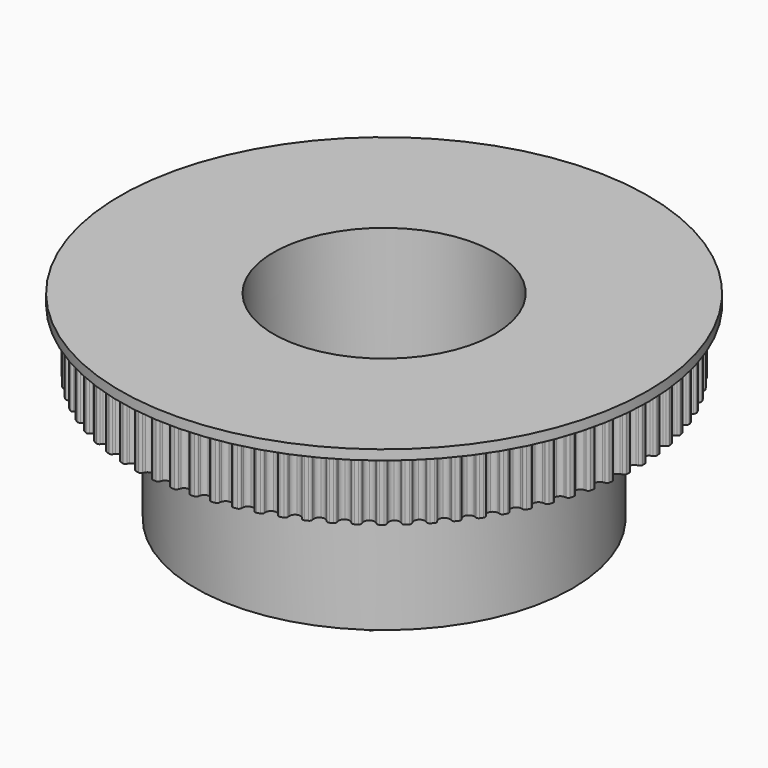
from build123d import *

# Parameters (mm, degrees)
F1_DEPTH  = 6.35
F2_R      = 26.67
F3_DEPTH  = 1
F4_R      = 19.05
F5_DEPTH  = 12.7
F7_DEPTH  = 6.35
F8_R      = 4.8895
F9_DEPTH  = 41.656
F10_R     = 11.176
F11_DEPTH = 16.51


with BuildPart() as f1:
    # F0 (on Top) → F1 (new body)
    with BuildSketch(Plane.XY):
        with BuildLine():
            ThreePointArc((0.501201, 25.030826), (0.296418, 24.799987), (0, 24.7142))
            ThreePointArc((0, 24.7142), (-0.296418, 24.799987), (-0.501201, 25.030826))
            ThreePointArc((-0.501201, 25.030826), (-0.544776, 25.138037), (-0.575673, 25.249565))
            ThreePointArc((-0.575673, 25.249565), (-0.667659, 25.39624), (-0.832269, 25.449895))
            ThreePointArc((-0.832269, 25.449895), (-0.999692, 25.443869), (-1.167072, 25.436741))
            ThreePointArc((-1.167072, 25.436741), (-1.326965, 25.370336), (-1.40716, 25.216896))
            ThreePointArc((-1.40716, 25.216896), (-1.429211, 25.103288), (-1.46424, 24.992988))
            ThreePointArc((-1.46424, 24.992988), (-1.65028, 24.746793), (-1.939054, 24.638014))
            ThreePointArc((-1.939054, 24.638014), (-2.241289, 24.70028), (-2.463552, 24.914341))
            ThreePointArc((-2.463552, 24.914341), (-2.515405, 25.017802), (-2.554956, 25.126562))
            ThreePointArc((-2.554956, 25.126562), (-2.658167, 25.265568), (-2.826479, 25.306142))
            ThreePointArc((-2.826479, 25.306142), (-2.992914, 25.286999), (-3.159218, 25.26676))
            ThreePointArc((-3.159218, 25.26676), (-3.313408, 25.188015), (-3.381317, 25.028756))
            ThreePointArc((-3.381317, 25.028756), (-3.394386, 24.913768), (-3.420653, 24.80106))
            ThreePointArc((-3.420653, 24.80106), (-3.586804, 24.541028), (-3.866153, 24.409927))
            ThreePointArc((-3.866153, 24.409927), (-4.172341, 24.448288), (-4.410715, 24.64425))
            ThreePointArc((-4.410715, 24.64425), (-4.470525, 24.743324), (-4.518487, 24.848646))
            ThreePointArc((-4.518487, 24.848646), (-4.632287, 24.979126), (-4.803263, 25.006369))
            ThreePointArc((-4.803263, 25.006369), (-4.967682, 24.974226), (-5.131887, 24.941002))
            ThreePointArc((-5.131887, 24.941002), (-5.279423, 24.850402), (-5.334627, 24.686305))
            ThreePointArc((-5.334627, 24.686305), (-5.338634, 24.570647), (-5.355977, 24.456225))
            ThreePointArc((-5.355977, 24.456225), (-5.501214, 24.183958), (-5.769415, 24.031345))
            ThreePointArc((-5.769415, 24.031345), (-6.07767, 24.045563), (-6.330683, 24.222219))
            ThreePointArc((-6.330683, 24.222219), (-6.398082, 24.316296), (-6.454161, 24.417529))
            ThreePointArc((-6.454161, 24.417529), (-6.577846, 24.538678), (-6.750434, 24.552423))
            ThreePointArc((-6.750434, 24.552423), (-6.911824, 24.507479), (-7.072915, 24.461474))
            ThreePointArc((-7.072915, 24.461474), (-7.212888, 24.359578), (-7.255047, 24.191656))
            ThreePointArc((-7.255047, 24.191656), (-7.249968, 24.076039), (-7.25828, 23.96061))
            ThreePointArc((-7.25828, 23.96061), (-7.381707, 23.677787), (-7.637108, 23.504601))
            ThreePointArc((-7.637108, 23.504601), (-7.945528, 23.494591), (-8.211621, 23.65085))
            ThreePointArc((-8.211621, 23.65085), (-8.286194, 23.739349), (-8.350042, 23.83587))
            ThreePointArc((-8.350042, 23.83587), (-8.482852, 23.946942), (-8.655985, 23.947103))
            ThreePointArc((-8.655985, 23.947103), (-8.813352, 23.889635), (-8.970337, 23.831133))
            ThreePointArc((-8.970337, 23.831133), (-9.101884, 23.718569), (-9.130738, 23.547857))
            ThreePointArc((-9.130738, 23.547857), (-9.116603, 23.432995), (-9.115833, 23.317269))
            ThreePointArc((-9.115833, 23.317269), (-9.216689, 23.025634), (-9.457715, 22.832944))
            ThreePointArc((-9.457715, 22.832944), (-9.764399, 22.798766), (-10.041932, 22.933666))
            ThreePointArc((-10.041932, 22.933666), (-10.123218, 23.016041), (-10.194442, 23.107256))
            ThreePointArc((-10.194442, 23.107256), (-10.335557, 23.207564), (-10.50817, 23.194142))
            ThreePointArc((-10.50817, 23.194142), (-10.660542, 23.124504), (-10.812453, 23.053865))
            ThreePointArc((-10.812453, 23.053865), (-10.934763, 22.931327), (-10.950134, 22.758877))
            ThreePointArc((-10.950134, 22.758877), (-10.927031, 22.645478), (-10.917183, 22.53017))
            ThreePointArc((-10.917183, 22.53017), (-10.994848, 22.231521), (-11.220012, 22.020513))
            ThreePointArc((-11.220012, 22.020513), (-11.523069, 21.962379), (-11.810331, 22.075089))
            ThreePointArc((-11.810331, 22.075089), (-11.897829, 22.150832), (-11.975991, 22.236177))
            ThreePointArc((-11.975991, 22.236177), (-12.124541, 22.325105), (-12.295568, 22.29818))
            ThreePointArc((-12.295568, 22.29818), (-12.442007, 22.216802), (-12.587908, 22.134462))
            ThreePointArc((-12.587908, 22.134462), (-12.700226, 22.002706), (-12.70202, 21.829581))
            ThreePointArc((-12.70202, 21.829581), (-12.67009, 21.718345), (-12.651226, 21.604165))
            ThreePointArc((-12.651226, 21.604165), (-12.705219, 21.300343), (-12.913134, 21.07232))
            ThreePointArc((-12.913134, 21.07232), (-13.210695, 20.990587), (-13.505915, 21.080411))
            ThreePointArc((-13.505915, 21.080411), (-13.599086, 21.149055), (-13.683703, 21.228005))
            ThreePointArc((-13.683703, 21.228005), (-13.838772, 21.305003), (-14.00716, 21.264743))
            ThreePointArc((-14.00716, 21.264743), (-14.146763, 21.172126), (-14.285753, 21.078593))
            ThreePointArc((-14.285753, 21.078593), (-14.387388, 20.93843), (-14.375593, 20.765699))
            ThreePointArc((-14.375593, 20.765699), (-14.335034, 20.657311), (-14.30727, 20.544962))
            ThreePointArc((-14.30727, 20.544962), (-14.337259, 20.237841), (-14.526642, 19.994208))
            ThreePointArc((-14.526642, 19.994208), (-14.816874, 19.88938), (-15.118231, 19.955765))
            ThreePointArc((-15.118231, 19.955765), (-15.216501, 20.016888), (-15.307051, 20.088955))
            ThreePointArc((-15.307051, 20.088955), (-15.467683, 20.15355), (-15.632393, 20.100202))
            ThreePointArc((-15.632393, 20.100202), (-15.764299, 19.996918), (-15.895522, 19.892768))
            ThreePointArc((-15.895522, 19.892768), (-15.985847, 19.745063), (-15.960536, 19.573789))
            ThreePointArc((-15.960536, 19.573789), (-15.911598, 19.468917), (-15.875105, 19.359094))
            ThreePointArc((-15.875105, 19.359094), (-15.880905, 19.050566), (-16.050589, 18.792825))
            ThreePointArc((-16.050589, 18.792825), (-16.331701, 18.66555), (-16.637338, 18.708085))
            ThreePointArc((-16.637338, 18.708085), (-16.7401, 18.76131), (-16.836026, 18.82605))
            ThreePointArc((-16.836026, 18.82605), (-17.001231, 18.877843), (-17.161247, 18.811736))
            ThreePointArc((-17.161247, 18.811736), (-17.284643, 18.698421), (-17.40729, 18.584297))
            ThreePointArc((-17.40729, 18.584297), (-17.485747, 18.42996), (-17.447076, 18.261201))
            ThreePointArc((-17.447076, 18.261201), (-17.390062, 18.160492), (-17.345064, 18.05387))
            ThreePointArc((-17.345064, 18.05387), (-17.326639, 17.745838), (-17.475578, 17.475578))
            ThreePointArc((-17.475578, 17.475578), (-17.745838, 17.326639), (-18.05387, 17.345064))
            ThreePointArc((-18.05387, 17.345064), (-18.160492, 17.390062), (-18.261201, 17.447076))
            ThreePointArc((-18.261201, 17.447076), (-18.42996, 17.485747), (-18.584297, 17.40729))
            ThreePointArc((-18.584297, 17.40729), (-18.698421, 17.284643), (-18.811736, 17.161247))
            ThreePointArc((-18.811736, 17.161247), (-18.877843, 17.001231), (-18.82605, 16.836026))
            ThreePointArc((-18.82605, 16.836026), (-18.76131, 16.7401), (-18.708085, 16.637338))
            ThreePointArc((-18.708085, 16.637338), (-18.66555, 16.331701), (-18.792825, 16.050589))
            ThreePointArc((-18.792825, 16.050589), (-19.050566, 15.880905), (-19.359094, 15.875105))
            ThreePointArc((-19.359094, 15.875105), (-19.468917, 15.911598), (-19.573789, 15.960536))
            ThreePointArc((-19.573789, 15.960536), (-19.745063, 15.985847), (-19.892768, 15.895522))
            ThreePointArc((-19.892768, 15.895522), (-19.996918, 15.764299), (-20.100202, 15.632393))
            ThreePointArc((-20.100202, 15.632393), (-20.15355, 15.467683), (-20.088955, 15.307051))
            ThreePointArc((-20.088955, 15.307051), (-20.016888, 15.216501), (-19.955765, 15.118231))
            ThreePointArc((-19.955765, 15.118231), (-19.88938, 14.816874), (-19.994208, 14.526642))
            ThreePointArc((-19.994208, 14.526642), (-20.237841, 14.337259), (-20.544962, 14.30727))
            ThreePointArc((-20.544962, 14.30727), (-20.657311, 14.335034), (-20.765699, 14.375593))
            ThreePointArc((-20.765699, 14.375593), (-20.93843, 14.387388), (-21.078593, 14.285753))
            ThreePointArc((-21.078593, 14.285753), (-21.172126, 14.146763), (-21.264743, 14.00716))
            ThreePointArc((-21.264743, 14.00716), (-21.305003, 13.838772), (-21.228005, 13.683703))
            ThreePointArc((-21.228005, 13.683703), (-21.149055, 13.599086), (-21.080411, 13.505915))
            ThreePointArc((-21.080411, 13.505915), (-20.990587, 13.210695), (-21.07232, 12.913134))
            ThreePointArc((-21.07232, 12.913134), (-21.300343, 12.705219), (-21.604165, 12.651226))
            ThreePointArc((-21.604165, 12.651226), (-21.718345, 12.67009), (-21.829581, 12.70202))
            ThreePointArc((-21.829581, 12.70202), (-22.002706, 12.700226), (-22.134462, 12.587908))
            ThreePointArc((-22.134462, 12.587908), (-22.216802, 12.442007), (-22.29818, 12.295568))
            ThreePointArc((-22.29818, 12.295568), (-22.325105, 12.124541), (-22.236177, 11.975991))
            ThreePointArc((-22.236177, 11.975991), (-22.150832, 11.897829), (-22.075089, 11.810331))
            ThreePointArc((-22.075089, 11.810331), (-21.962379, 11.523069), (-22.020513, 11.220012))
            ThreePointArc((-22.020513, 11.220012), (-22.231521, 10.994848), (-22.53017, 10.917183))
            ThreePointArc((-22.53017, 10.917183), (-22.645478, 10.927031), (-22.758877, 10.950134))
            ThreePointArc((-22.758877, 10.950134), (-22.931327, 10.934763), (-23.053865, 10.812453))
            ThreePointArc((-23.053865, 10.812453), (-23.124504, 10.660542), (-23.194142, 10.50817))
            ThreePointArc((-23.194142, 10.50817), (-23.207564, 10.335557), (-23.107256, 10.194442))
            ThreePointArc((-23.107256, 10.194442), (-23.016041, 10.123218), (-22.933666, 10.041932))
            ThreePointArc((-22.933666, 10.041932), (-22.798766, 9.764399), (-22.832944, 9.457715))
            ThreePointArc((-22.832944, 9.457715), (-23.025634, 9.216689), (-23.317269, 9.115833))
            ThreePointArc((-23.317269, 9.115833), (-23.432995, 9.116603), (-23.547857, 9.130738))
            ThreePointArc((-23.547857, 9.130738), (-23.718569, 9.101884), (-23.831133, 8.970337))
            ThreePointArc((-23.831133, 8.970337), (-23.889635, 8.813352), (-23.947103, 8.655985))
            ThreePointArc((-23.947103, 8.655985), (-23.946942, 8.482852), (-23.83587, 8.350042))
            ThreePointArc((-23.83587, 8.350042), (-23.739349, 8.286194), (-23.65085, 8.211621))
            ThreePointArc((-23.65085, 8.211621), (-23.494591, 7.945528), (-23.504601, 7.637108))
            ThreePointArc((-23.504601, 7.637108), (-23.677787, 7.381707), (-23.96061, 7.25828))
            ThreePointArc((-23.96061, 7.25828), (-24.076039, 7.249968), (-24.191656, 7.255047))
            ThreePointArc((-24.191656, 7.255047), (-24.359578, 7.212888), (-24.461474, 7.072915))
            ThreePointArc((-24.461474, 7.072915), (-24.507479, 6.911824), (-24.552423, 6.750434))
            ThreePointArc((-24.552423, 6.750434), (-24.538678, 6.577846), (-24.417529, 6.454161))
            ThreePointArc((-24.417529, 6.454161), (-24.316296, 6.398082), (-24.222219, 6.330683))
            ThreePointArc((-24.222219, 6.330683), (-24.045563, 6.07767), (-24.031345, 5.769415))
            ThreePointArc((-24.031345, 5.769415), (-24.183958, 5.501214), (-24.456225, 5.355977))
            ThreePointArc((-24.456225, 5.355977), (-24.570647, 5.338634), (-24.686305, 5.334627))
            ThreePointArc((-24.686305, 5.334627), (-24.850402, 5.279423), (-24.941002, 5.131887))
            ThreePointArc((-24.941002, 5.131887), (-24.974226, 4.967682), (-25.006369, 4.803263))
            ThreePointArc((-25.006369, 4.803263), (-24.979126, 4.632287), (-24.848646, 4.518487))
            ThreePointArc((-24.848646, 4.518487), (-24.743324, 4.470525), (-24.64425, 4.410715))
            ThreePointArc((-24.64425, 4.410715), (-24.448288, 4.172341), (-24.409927, 3.866153))
            ThreePointArc((-24.409927, 3.866153), (-24.541028, 3.586804), (-24.80106, 3.420653))
            ThreePointArc((-24.80106, 3.420653), (-24.913768, 3.394386), (-25.028756, 3.381317))
            ThreePointArc((-25.028756, 3.381317), (-25.188015, 3.313408), (-25.26676, 3.159218))
            ThreePointArc((-25.26676, 3.159218), (-25.286999, 2.992914), (-25.306142, 2.826479))
            ThreePointArc((-25.306142, 2.826479), (-25.265568, 2.658167), (-25.126562, 2.554956))
            ThreePointArc((-25.126562, 2.554956), (-25.017802, 2.515405), (-24.914341, 2.463552))
            ThreePointArc((-24.914341, 2.463552), (-24.70028, 2.241289), (-24.638014, 1.939054))
            ThreePointArc((-24.638014, 1.939054), (-24.746793, 1.65028), (-24.992988, 1.46424))
            ThreePointArc((-24.992988, 1.46424), (-25.103288, 1.429211), (-25.216896, 1.40716))
            ThreePointArc((-25.216896, 1.40716), (-25.370336, 1.326965), (-25.436741, 1.167072))
            ThreePointArc((-25.436741, 1.167072), (-25.443869, 0.999692), (-25.449895, 0.832269))
            ThreePointArc((-25.449895, 0.832269), (-25.39624, 0.667659), (-25.249565, 0.575673))
            ThreePointArc((-25.249565, 0.575673), (-25.138037, 0.544776), (-25.030826, 0.501201))
            ThreePointArc((-25.030826, 0.501201), (-24.799987, 0.296418), (-24.7142, 0))
            ThreePointArc((-24.7142, 0), (-24.799987, -0.296418), (-25.030826, -0.501201))
            ThreePointArc((-25.030826, -0.501201), (-25.138037, -0.544776), (-25.249565, -0.575673))
            ThreePointArc((-25.249565, -0.575673), (-25.39624, -0.667659), (-25.449895, -0.832269))
            ThreePointArc((-25.449895, -0.832269), (-25.443869, -0.999692), (-25.436741, -1.167072))
            ThreePointArc((-25.436741, -1.167072), (-25.370336, -1.326965), (-25.216896, -1.40716))
            ThreePointArc((-25.216896, -1.40716), (-25.103288, -1.429211), (-24.992988, -1.46424))
            ThreePointArc((-24.992988, -1.46424), (-24.746793, -1.65028), (-24.638014, -1.939054))
            ThreePointArc((-24.638014, -1.939054), (-24.70028, -2.241289), (-24.914341, -2.463552))
            ThreePointArc((-24.914341, -2.463552), (-25.017802, -2.515405), (-25.126562, -2.554956))
            ThreePointArc((-25.126562, -2.554956), (-25.265568, -2.658167), (-25.306142, -2.826479))
            ThreePointArc((-25.306142, -2.826479), (-25.286999, -2.992914), (-25.26676, -3.159218))
            ThreePointArc((-25.26676, -3.159218), (-25.188015, -3.313408), (-25.028756, -3.381317))
            ThreePointArc((-25.028756, -3.381317), (-24.913768, -3.394386), (-24.80106, -3.420653))
            ThreePointArc((-24.80106, -3.420653), (-24.541028, -3.586804), (-24.409927, -3.866153))
            ThreePointArc((-24.409927, -3.866153), (-24.448288, -4.172341), (-24.64425, -4.410715))
            ThreePointArc((-24.64425, -4.410715), (-24.743324, -4.470525), (-24.848646, -4.518487))
            ThreePointArc((-24.848646, -4.518487), (-24.979126, -4.632287), (-25.006369, -4.803263))
            ThreePointArc((-25.006369, -4.803263), (-24.974226, -4.967682), (-24.941002, -5.131887))
            ThreePointArc((-24.941002, -5.131887), (-24.850402, -5.279423), (-24.686305, -5.334627))
            ThreePointArc((-24.686305, -5.334627), (-24.570647, -5.338634), (-24.456225, -5.355977))
            ThreePointArc((-24.456225, -5.355977), (-24.183958, -5.501214), (-24.031345, -5.769415))
            ThreePointArc((-24.031345, -5.769415), (-24.045563, -6.07767), (-24.222219, -6.330683))
            ThreePointArc((-24.222219, -6.330683), (-24.316296, -6.398082), (-24.417529, -6.454161))
            ThreePointArc((-24.417529, -6.454161), (-24.538678, -6.577846), (-24.552423, -6.750434))
            ThreePointArc((-24.552423, -6.750434), (-24.507479, -6.911824), (-24.461474, -7.072915))
            ThreePointArc((-24.461474, -7.072915), (-24.359578, -7.212888), (-24.191656, -7.255047))
            ThreePointArc((-24.191656, -7.255047), (-24.076039, -7.249968), (-23.96061, -7.25828))
            ThreePointArc((-23.96061, -7.25828), (-23.677787, -7.381707), (-23.504601, -7.637108))
            ThreePointArc((-23.504601, -7.637108), (-23.494591, -7.945528), (-23.65085, -8.211621))
            ThreePointArc((-23.65085, -8.211621), (-23.739349, -8.286194), (-23.83587, -8.350042))
            ThreePointArc((-23.83587, -8.350042), (-23.946942, -8.482852), (-23.947103, -8.655985))
            ThreePointArc((-23.947103, -8.655985), (-23.889635, -8.813352), (-23.831133, -8.970337))
            ThreePointArc((-23.831133, -8.970337), (-23.718569, -9.101884), (-23.547857, -9.130738))
            ThreePointArc((-23.547857, -9.130738), (-23.432995, -9.116603), (-23.317269, -9.115833))
            ThreePointArc((-23.317269, -9.115833), (-23.025634, -9.216689), (-22.832944, -9.457715))
            ThreePointArc((-22.832944, -9.457715), (-22.798766, -9.764399), (-22.933666, -10.041932))
            ThreePointArc((-22.933666, -10.041932), (-23.016041, -10.123218), (-23.107256, -10.194442))
            ThreePointArc((-23.107256, -10.194442), (-23.207564, -10.335557), (-23.194142, -10.50817))
            ThreePointArc((-23.194142, -10.50817), (-23.124504, -10.660542), (-23.053865, -10.812453))
            ThreePointArc((-23.053865, -10.812453), (-22.931327, -10.934763), (-22.758877, -10.950134))
            ThreePointArc((-22.758877, -10.950134), (-22.645478, -10.927031), (-22.53017, -10.917183))
            ThreePointArc((-22.53017, -10.917183), (-22.231521, -10.994848), (-22.020513, -11.220012))
            ThreePointArc((-22.020513, -11.220012), (-21.962379, -11.523069), (-22.075089, -11.810331))
            ThreePointArc((-22.075089, -11.810331), (-22.150832, -11.897829), (-22.236177, -11.975991))
            ThreePointArc((-22.236177, -11.975991), (-22.325105, -12.124541), (-22.29818, -12.295568))
            ThreePointArc((-22.29818, -12.295568), (-22.216802, -12.442007), (-22.134462, -12.587908))
            ThreePointArc((-22.134462, -12.587908), (-22.002706, -12.700226), (-21.829581, -12.70202))
            ThreePointArc((-21.829581, -12.70202), (-21.718345, -12.67009), (-21.604165, -12.651226))
            ThreePointArc((-21.604165, -12.651226), (-21.300343, -12.705219), (-21.07232, -12.913134))
            ThreePointArc((-21.07232, -12.913134), (-20.990587, -13.210695), (-21.080411, -13.505915))
            ThreePointArc((-21.080411, -13.505915), (-21.149055, -13.599086), (-21.228005, -13.683703))
            ThreePointArc((-21.228005, -13.683703), (-21.305003, -13.838772), (-21.264743, -14.00716))
            ThreePointArc((-21.264743, -14.00716), (-21.172126, -14.146763), (-21.078593, -14.285753))
            ThreePointArc((-21.078593, -14.285753), (-20.93843, -14.387388), (-20.765699, -14.375593))
            ThreePointArc((-20.765699, -14.375593), (-20.657311, -14.335034), (-20.544962, -14.30727))
            ThreePointArc((-20.544962, -14.30727), (-20.237841, -14.337259), (-19.994208, -14.526642))
            ThreePointArc((-19.994208, -14.526642), (-19.88938, -14.816874), (-19.955765, -15.118231))
            ThreePointArc((-19.955765, -15.118231), (-20.016888, -15.216501), (-20.088955, -15.307051))
            ThreePointArc((-20.088955, -15.307051), (-20.15355, -15.467683), (-20.100202, -15.632393))
            ThreePointArc((-20.100202, -15.632393), (-19.996918, -15.764299), (-19.892768, -15.895522))
            ThreePointArc((-19.892768, -15.895522), (-19.745063, -15.985847), (-19.573789, -15.960536))
            ThreePointArc((-19.573789, -15.960536), (-19.468917, -15.911598), (-19.359094, -15.875105))
            ThreePointArc((-19.359094, -15.875105), (-19.050566, -15.880905), (-18.792825, -16.050589))
            ThreePointArc((-18.792825, -16.050589), (-18.66555, -16.331701), (-18.708085, -16.637338))
            ThreePointArc((-18.708085, -16.637338), (-18.76131, -16.7401), (-18.82605, -16.836026))
            ThreePointArc((-18.82605, -16.836026), (-18.877843, -17.001231), (-18.811736, -17.161247))
            ThreePointArc((-18.811736, -17.161247), (-18.698421, -17.284643), (-18.584297, -17.40729))
            ThreePointArc((-18.584297, -17.40729), (-18.42996, -17.485747), (-18.261201, -17.447076))
            ThreePointArc((-18.261201, -17.447076), (-18.160492, -17.390062), (-18.05387, -17.345064))
            ThreePointArc((-18.05387, -17.345064), (-17.745838, -17.326639), (-17.475578, -17.475578))
            ThreePointArc((-17.475578, -17.475578), (-17.326639, -17.745838), (-17.345064, -18.05387))
            ThreePointArc((-17.345064, -18.05387), (-17.390062, -18.160492), (-17.447076, -18.261201))
            ThreePointArc((-17.447076, -18.261201), (-17.485747, -18.42996), (-17.40729, -18.584297))
            ThreePointArc((-17.40729, -18.584297), (-17.284643, -18.698421), (-17.161247, -18.811736))
            ThreePointArc((-17.161247, -18.811736), (-17.001231, -18.877843), (-16.836026, -18.82605))
            ThreePointArc((-16.836026, -18.82605), (-16.7401, -18.76131), (-16.637338, -18.708085))
            ThreePointArc((-16.637338, -18.708085), (-16.331701, -18.66555), (-16.050589, -18.792825))
            ThreePointArc((-16.050589, -18.792825), (-15.880905, -19.050566), (-15.875105, -19.359094))
            ThreePointArc((-15.875105, -19.359094), (-15.911598, -19.468917), (-15.960536, -19.573789))
            ThreePointArc((-15.960536, -19.573789), (-15.985847, -19.745063), (-15.895522, -19.892768))
            ThreePointArc((-15.895522, -19.892768), (-15.764299, -19.996918), (-15.632393, -20.100202))
            ThreePointArc((-15.632393, -20.100202), (-15.467683, -20.15355), (-15.307051, -20.088955))
            ThreePointArc((-15.307051, -20.088955), (-15.216501, -20.016888), (-15.118231, -19.955765))
            ThreePointArc((-15.118231, -19.955765), (-14.816874, -19.88938), (-14.526642, -19.994208))
            ThreePointArc((-14.526642, -19.994208), (-14.337259, -20.237841), (-14.30727, -20.544962))
            ThreePointArc((-14.30727, -20.544962), (-14.335034, -20.657311), (-14.375593, -20.765699))
            ThreePointArc((-14.375593, -20.765699), (-14.387388, -20.93843), (-14.285753, -21.078593))
            ThreePointArc((-14.285753, -21.078593), (-14.146763, -21.172126), (-14.00716, -21.264743))
            ThreePointArc((-14.00716, -21.264743), (-13.838772, -21.305003), (-13.683703, -21.228005))
            ThreePointArc((-13.683703, -21.228005), (-13.599086, -21.149055), (-13.505915, -21.080411))
            ThreePointArc((-13.505915, -21.080411), (-13.210695, -20.990587), (-12.913134, -21.07232))
            ThreePointArc((-12.913134, -21.07232), (-12.705219, -21.300343), (-12.651226, -21.604165))
            ThreePointArc((-12.651226, -21.604165), (-12.67009, -21.718345), (-12.70202, -21.829581))
            ThreePointArc((-12.70202, -21.829581), (-12.700226, -22.002706), (-12.587908, -22.134462))
            ThreePointArc((-12.587908, -22.134462), (-12.442007, -22.216802), (-12.295568, -22.29818))
            ThreePointArc((-12.295568, -22.29818), (-12.124541, -22.325105), (-11.975991, -22.236177))
            ThreePointArc((-11.975991, -22.236177), (-11.897829, -22.150832), (-11.810331, -22.075089))
            ThreePointArc((-11.810331, -22.075089), (-11.523069, -21.962379), (-11.220012, -22.020513))
            ThreePointArc((-11.220012, -22.020513), (-10.994848, -22.231521), (-10.917183, -22.53017))
            ThreePointArc((-10.917183, -22.53017), (-10.927031, -22.645478), (-10.950134, -22.758877))
            ThreePointArc((-10.950134, -22.758877), (-10.934763, -22.931327), (-10.812453, -23.053865))
            ThreePointArc((-10.812453, -23.053865), (-10.660542, -23.124504), (-10.50817, -23.194142))
            ThreePointArc((-10.50817, -23.194142), (-10.335557, -23.207564), (-10.194442, -23.107256))
            ThreePointArc((-10.194442, -23.107256), (-10.123218, -23.016041), (-10.041932, -22.933666))
            ThreePointArc((-10.041932, -22.933666), (-9.764399, -22.798766), (-9.457715, -22.832944))
            ThreePointArc((-9.457715, -22.832944), (-9.216689, -23.025634), (-9.115833, -23.317269))
            ThreePointArc((-9.115833, -23.317269), (-9.116603, -23.432995), (-9.130738, -23.547857))
            ThreePointArc((-9.130738, -23.547857), (-9.101884, -23.718569), (-8.970337, -23.831133))
            ThreePointArc((-8.970337, -23.831133), (-8.813352, -23.889635), (-8.655985, -23.947103))
            ThreePointArc((-8.655985, -23.947103), (-8.482852, -23.946942), (-8.350042, -23.83587))
            ThreePointArc((-8.350042, -23.83587), (-8.286194, -23.739349), (-8.211621, -23.65085))
            ThreePointArc((-8.211621, -23.65085), (-7.945528, -23.494591), (-7.637108, -23.504601))
            ThreePointArc((-7.637108, -23.504601), (-7.381707, -23.677787), (-7.25828, -23.96061))
            ThreePointArc((-7.25828, -23.96061), (-7.249968, -24.076039), (-7.255047, -24.191656))
            ThreePointArc((-7.255047, -24.191656), (-7.212888, -24.359578), (-7.072915, -24.461474))
            ThreePointArc((-7.072915, -24.461474), (-6.911824, -24.507479), (-6.750434, -24.552423))
            ThreePointArc((-6.750434, -24.552423), (-6.577846, -24.538678), (-6.454161, -24.417529))
            ThreePointArc((-6.454161, -24.417529), (-6.398082, -24.316296), (-6.330683, -24.222219))
            ThreePointArc((-6.330683, -24.222219), (-6.07767, -24.045563), (-5.769415, -24.031345))
            ThreePointArc((-5.769415, -24.031345), (-5.501214, -24.183958), (-5.355977, -24.456225))
            ThreePointArc((-5.355977, -24.456225), (-5.338634, -24.570647), (-5.334627, -24.686305))
            ThreePointArc((-5.334627, -24.686305), (-5.279423, -24.850402), (-5.131887, -24.941002))
            ThreePointArc((-5.131887, -24.941002), (-4.967682, -24.974226), (-4.803263, -25.006369))
            ThreePointArc((-4.803263, -25.006369), (-4.632287, -24.979126), (-4.518487, -24.848646))
            ThreePointArc((-4.518487, -24.848646), (-4.470525, -24.743324), (-4.410715, -24.64425))
            ThreePointArc((-4.410715, -24.64425), (-4.172341, -24.448288), (-3.866153, -24.409927))
            ThreePointArc((-3.866153, -24.409927), (-3.586804, -24.541028), (-3.420653, -24.80106))
            ThreePointArc((-3.420653, -24.80106), (-3.394386, -24.913768), (-3.381317, -25.028756))
            ThreePointArc((-3.381317, -25.028756), (-3.313408, -25.188015), (-3.159218, -25.26676))
            ThreePointArc((-3.159218, -25.26676), (-2.992914, -25.286999), (-2.826479, -25.306142))
            ThreePointArc((-2.826479, -25.306142), (-2.658167, -25.265568), (-2.554956, -25.126562))
            ThreePointArc((-2.554956, -25.126562), (-2.515405, -25.017802), (-2.463552, -24.914341))
            ThreePointArc((-2.463552, -24.914341), (-2.241289, -24.70028), (-1.939054, -24.638014))
            ThreePointArc((-1.939054, -24.638014), (-1.65028, -24.746793), (-1.46424, -24.992988))
            ThreePointArc((-1.46424, -24.992988), (-1.429211, -25.103288), (-1.40716, -25.216896))
            ThreePointArc((-1.40716, -25.216896), (-1.326965, -25.370336), (-1.167072, -25.436741))
            ThreePointArc((-1.167072, -25.436741), (-0.999692, -25.443869), (-0.832269, -25.449895))
            ThreePointArc((-0.832269, -25.449895), (-0.667659, -25.39624), (-0.575673, -25.249565))
            ThreePointArc((-0.575673, -25.249565), (-0.544776, -25.138037), (-0.501201, -25.030826))
            ThreePointArc((-0.501201, -25.030826), (-0.296418, -24.799987), (0, -24.7142))
            ThreePointArc((0, -24.7142), (0.296418, -24.799987), (0.501201, -25.030826))
            ThreePointArc((0.501201, -25.030826), (0.544776, -25.138037), (0.575673, -25.249565))
            ThreePointArc((0.575673, -25.249565), (0.667659, -25.39624), (0.832269, -25.449895))
            ThreePointArc((0.832269, -25.449895), (0.999692, -25.443869), (1.167072, -25.436741))
            ThreePointArc((1.167072, -25.436741), (1.326965, -25.370336), (1.40716, -25.216896))
            ThreePointArc((1.40716, -25.216896), (1.429211, -25.103288), (1.46424, -24.992988))
            ThreePointArc((1.46424, -24.992988), (1.65028, -24.746793), (1.939054, -24.638014))
            ThreePointArc((1.939054, -24.638014), (2.241289, -24.70028), (2.463552, -24.914341))
            ThreePointArc((2.463552, -24.914341), (2.515405, -25.017802), (2.554956, -25.126562))
            ThreePointArc((2.554956, -25.126562), (2.658167, -25.265568), (2.826479, -25.306142))
            ThreePointArc((2.826479, -25.306142), (2.992914, -25.286999), (3.159218, -25.26676))
            ThreePointArc((3.159218, -25.26676), (3.313408, -25.188015), (3.381317, -25.028756))
            ThreePointArc((3.381317, -25.028756), (3.394386, -24.913768), (3.420653, -24.80106))
            ThreePointArc((3.420653, -24.80106), (3.586804, -24.541028), (3.866153, -24.409927))
            ThreePointArc((3.866153, -24.409927), (4.172341, -24.448288), (4.410715, -24.64425))
            ThreePointArc((4.410715, -24.64425), (4.470525, -24.743324), (4.518487, -24.848646))
            ThreePointArc((4.518487, -24.848646), (4.632287, -24.979126), (4.803263, -25.006369))
            ThreePointArc((4.803263, -25.006369), (4.967682, -24.974226), (5.131887, -24.941002))
            ThreePointArc((5.131887, -24.941002), (5.279423, -24.850402), (5.334627, -24.686305))
            ThreePointArc((5.334627, -24.686305), (5.338634, -24.570647), (5.355977, -24.456225))
            ThreePointArc((5.355977, -24.456225), (5.501214, -24.183958), (5.769415, -24.031345))
            ThreePointArc((5.769415, -24.031345), (6.07767, -24.045563), (6.330683, -24.222219))
            ThreePointArc((6.330683, -24.222219), (6.398082, -24.316296), (6.454161, -24.417529))
            ThreePointArc((6.454161, -24.417529), (6.577846, -24.538678), (6.750434, -24.552423))
            ThreePointArc((6.750434, -24.552423), (6.911824, -24.507479), (7.072915, -24.461474))
            ThreePointArc((7.072915, -24.461474), (7.212888, -24.359578), (7.255047, -24.191656))
            ThreePointArc((7.255047, -24.191656), (7.249968, -24.076039), (7.25828, -23.96061))
            ThreePointArc((7.25828, -23.96061), (7.381707, -23.677787), (7.637108, -23.504601))
            ThreePointArc((7.637108, -23.504601), (7.945528, -23.494591), (8.211621, -23.65085))
            ThreePointArc((8.211621, -23.65085), (8.286194, -23.739349), (8.350042, -23.83587))
            ThreePointArc((8.350042, -23.83587), (8.482852, -23.946942), (8.655985, -23.947103))
            ThreePointArc((8.655985, -23.947103), (8.813352, -23.889635), (8.970337, -23.831133))
            ThreePointArc((8.970337, -23.831133), (9.101884, -23.718569), (9.130738, -23.547857))
            ThreePointArc((9.130738, -23.547857), (9.116603, -23.432995), (9.115833, -23.317269))
            ThreePointArc((9.115833, -23.317269), (9.216689, -23.025634), (9.457715, -22.832944))
            ThreePointArc((9.457715, -22.832944), (9.764399, -22.798766), (10.041932, -22.933666))
            ThreePointArc((10.041932, -22.933666), (10.123218, -23.016041), (10.194442, -23.107256))
            ThreePointArc((10.194442, -23.107256), (10.335557, -23.207564), (10.50817, -23.194142))
            ThreePointArc((10.50817, -23.194142), (10.660542, -23.124504), (10.812453, -23.053865))
            ThreePointArc((10.812453, -23.053865), (10.934763, -22.931327), (10.950134, -22.758877))
            ThreePointArc((10.950134, -22.758877), (10.927031, -22.645478), (10.917183, -22.53017))
            ThreePointArc((10.917183, -22.53017), (10.994848, -22.231521), (11.220012, -22.020513))
            ThreePointArc((11.220012, -22.020513), (11.523069, -21.962379), (11.810331, -22.075089))
            ThreePointArc((11.810331, -22.075089), (11.897829, -22.150832), (11.975991, -22.236177))
            ThreePointArc((11.975991, -22.236177), (12.124541, -22.325105), (12.295568, -22.29818))
            ThreePointArc((12.295568, -22.29818), (12.442007, -22.216802), (12.587908, -22.134462))
            ThreePointArc((12.587908, -22.134462), (12.700226, -22.002706), (12.70202, -21.829581))
            ThreePointArc((12.70202, -21.829581), (12.67009, -21.718345), (12.651226, -21.604165))
            ThreePointArc((12.651226, -21.604165), (12.705219, -21.300343), (12.913134, -21.07232))
            ThreePointArc((12.913134, -21.07232), (13.210695, -20.990587), (13.505915, -21.080411))
            ThreePointArc((13.505915, -21.080411), (13.599086, -21.149055), (13.683703, -21.228005))
            ThreePointArc((13.683703, -21.228005), (13.838772, -21.305003), (14.00716, -21.264743))
            ThreePointArc((14.00716, -21.264743), (14.146763, -21.172126), (14.285753, -21.078593))
            ThreePointArc((14.285753, -21.078593), (14.387388, -20.93843), (14.375593, -20.765699))
            ThreePointArc((14.375593, -20.765699), (14.335034, -20.657311), (14.30727, -20.544962))
            ThreePointArc((14.30727, -20.544962), (14.337259, -20.237841), (14.526642, -19.994208))
            ThreePointArc((14.526642, -19.994208), (14.816874, -19.88938), (15.118231, -19.955765))
            ThreePointArc((15.118231, -19.955765), (15.216501, -20.016888), (15.307051, -20.088955))
            ThreePointArc((15.307051, -20.088955), (15.467683, -20.15355), (15.632393, -20.100202))
            ThreePointArc((15.632393, -20.100202), (15.764299, -19.996918), (15.895522, -19.892768))
            ThreePointArc((15.895522, -19.892768), (15.985847, -19.745063), (15.960536, -19.573789))
            ThreePointArc((15.960536, -19.573789), (15.911598, -19.468917), (15.875105, -19.359094))
            ThreePointArc((15.875105, -19.359094), (15.880905, -19.050566), (16.050589, -18.792825))
            ThreePointArc((16.050589, -18.792825), (16.331701, -18.66555), (16.637338, -18.708085))
            ThreePointArc((16.637338, -18.708085), (16.7401, -18.76131), (16.836026, -18.82605))
            ThreePointArc((16.836026, -18.82605), (17.001231, -18.877843), (17.161247, -18.811736))
            ThreePointArc((17.161247, -18.811736), (17.284643, -18.698421), (17.40729, -18.584297))
            ThreePointArc((17.40729, -18.584297), (17.485747, -18.42996), (17.447076, -18.261201))
            ThreePointArc((17.447076, -18.261201), (17.390062, -18.160492), (17.345064, -18.05387))
            ThreePointArc((17.345064, -18.05387), (17.326639, -17.745838), (17.475578, -17.475578))
            ThreePointArc((17.475578, -17.475578), (17.745838, -17.326639), (18.05387, -17.345064))
            ThreePointArc((18.05387, -17.345064), (18.160492, -17.390062), (18.261201, -17.447076))
            ThreePointArc((18.261201, -17.447076), (18.42996, -17.485747), (18.584297, -17.40729))
            ThreePointArc((18.584297, -17.40729), (18.698421, -17.284643), (18.811736, -17.161247))
            ThreePointArc((18.811736, -17.161247), (18.877843, -17.001231), (18.82605, -16.836026))
            ThreePointArc((18.82605, -16.836026), (18.76131, -16.7401), (18.708085, -16.637338))
            ThreePointArc((18.708085, -16.637338), (18.66555, -16.331701), (18.792825, -16.050589))
            ThreePointArc((18.792825, -16.050589), (19.050566, -15.880905), (19.359094, -15.875105))
            ThreePointArc((19.359094, -15.875105), (19.468917, -15.911598), (19.573789, -15.960536))
            ThreePointArc((19.573789, -15.960536), (19.745063, -15.985847), (19.892768, -15.895522))
            ThreePointArc((19.892768, -15.895522), (19.996918, -15.764299), (20.100202, -15.632393))
            ThreePointArc((20.100202, -15.632393), (20.15355, -15.467683), (20.088955, -15.307051))
            ThreePointArc((20.088955, -15.307051), (20.016888, -15.216501), (19.955765, -15.118231))
            ThreePointArc((19.955765, -15.118231), (19.88938, -14.816874), (19.994208, -14.526642))
            ThreePointArc((19.994208, -14.526642), (20.237841, -14.337259), (20.544962, -14.30727))
            ThreePointArc((20.544962, -14.30727), (20.657311, -14.335034), (20.765699, -14.375593))
            ThreePointArc((20.765699, -14.375593), (20.93843, -14.387388), (21.078593, -14.285753))
            ThreePointArc((21.078593, -14.285753), (21.172126, -14.146763), (21.264743, -14.00716))
            ThreePointArc((21.264743, -14.00716), (21.305003, -13.838772), (21.228005, -13.683703))
            ThreePointArc((21.228005, -13.683703), (21.149055, -13.599086), (21.080411, -13.505915))
            ThreePointArc((21.080411, -13.505915), (20.990587, -13.210695), (21.07232, -12.913134))
            ThreePointArc((21.07232, -12.913134), (21.300343, -12.705219), (21.604165, -12.651226))
            ThreePointArc((21.604165, -12.651226), (21.718345, -12.67009), (21.829581, -12.70202))
            ThreePointArc((21.829581, -12.70202), (22.002706, -12.700226), (22.134462, -12.587908))
            ThreePointArc((22.134462, -12.587908), (22.216802, -12.442007), (22.29818, -12.295568))
            ThreePointArc((22.29818, -12.295568), (22.325105, -12.124541), (22.236177, -11.975991))
            ThreePointArc((22.236177, -11.975991), (22.150832, -11.897829), (22.075089, -11.810331))
            ThreePointArc((22.075089, -11.810331), (21.962379, -11.523069), (22.020513, -11.220012))
            ThreePointArc((22.020513, -11.220012), (22.231521, -10.994848), (22.53017, -10.917183))
            ThreePointArc((22.53017, -10.917183), (22.645478, -10.927031), (22.758877, -10.950134))
            ThreePointArc((22.758877, -10.950134), (22.931327, -10.934763), (23.053865, -10.812453))
            ThreePointArc((23.053865, -10.812453), (23.124504, -10.660542), (23.194142, -10.50817))
            ThreePointArc((23.194142, -10.50817), (23.207564, -10.335557), (23.107256, -10.194442))
            ThreePointArc((23.107256, -10.194442), (23.016041, -10.123218), (22.933666, -10.041932))
            ThreePointArc((22.933666, -10.041932), (22.798766, -9.764399), (22.832944, -9.457715))
            ThreePointArc((22.832944, -9.457715), (23.025634, -9.216689), (23.317269, -9.115833))
            ThreePointArc((23.317269, -9.115833), (23.432995, -9.116603), (23.547857, -9.130738))
            ThreePointArc((23.547857, -9.130738), (23.718569, -9.101884), (23.831133, -8.970337))
            ThreePointArc((23.831133, -8.970337), (23.889635, -8.813352), (23.947103, -8.655985))
            ThreePointArc((23.947103, -8.655985), (23.946942, -8.482852), (23.83587, -8.350042))
            ThreePointArc((23.83587, -8.350042), (23.739349, -8.286194), (23.65085, -8.211621))
            ThreePointArc((23.65085, -8.211621), (23.494591, -7.945528), (23.504601, -7.637108))
            ThreePointArc((23.504601, -7.637108), (23.677787, -7.381707), (23.96061, -7.25828))
            ThreePointArc((23.96061, -7.25828), (24.076039, -7.249968), (24.191656, -7.255047))
            ThreePointArc((24.191656, -7.255047), (24.359578, -7.212888), (24.461474, -7.072915))
            ThreePointArc((24.461474, -7.072915), (24.507479, -6.911824), (24.552423, -6.750434))
            ThreePointArc((24.552423, -6.750434), (24.538678, -6.577846), (24.417529, -6.454161))
            ThreePointArc((24.417529, -6.454161), (24.316296, -6.398082), (24.222219, -6.330683))
            ThreePointArc((24.222219, -6.330683), (24.045563, -6.07767), (24.031345, -5.769415))
            ThreePointArc((24.031345, -5.769415), (24.183958, -5.501214), (24.456225, -5.355977))
            ThreePointArc((24.456225, -5.355977), (24.570647, -5.338634), (24.686305, -5.334627))
            ThreePointArc((24.686305, -5.334627), (24.850402, -5.279423), (24.941002, -5.131887))
            ThreePointArc((24.941002, -5.131887), (24.974226, -4.967682), (25.006369, -4.803263))
            ThreePointArc((25.006369, -4.803263), (24.979126, -4.632287), (24.848646, -4.518487))
            ThreePointArc((24.848646, -4.518487), (24.743324, -4.470525), (24.64425, -4.410715))
            ThreePointArc((24.64425, -4.410715), (24.448288, -4.172341), (24.409927, -3.866153))
            ThreePointArc((24.409927, -3.866153), (24.541028, -3.586804), (24.80106, -3.420653))
            ThreePointArc((24.80106, -3.420653), (24.913768, -3.394386), (25.028756, -3.381317))
            ThreePointArc((25.028756, -3.381317), (25.188015, -3.313408), (25.26676, -3.159218))
            ThreePointArc((25.26676, -3.159218), (25.286999, -2.992914), (25.306142, -2.826479))
            ThreePointArc((25.306142, -2.826479), (25.265568, -2.658167), (25.126562, -2.554956))
            ThreePointArc((25.126562, -2.554956), (25.017802, -2.515405), (24.914341, -2.463552))
            ThreePointArc((24.914341, -2.463552), (24.70028, -2.241289), (24.638014, -1.939054))
            ThreePointArc((24.638014, -1.939054), (24.746793, -1.65028), (24.992988, -1.46424))
            ThreePointArc((24.992988, -1.46424), (25.103288, -1.429211), (25.216896, -1.40716))
            ThreePointArc((25.216896, -1.40716), (25.370336, -1.326965), (25.436741, -1.167072))
            ThreePointArc((25.436741, -1.167072), (25.443869, -0.999692), (25.449895, -0.832269))
            ThreePointArc((25.449895, -0.832269), (25.39624, -0.667659), (25.249565, -0.575673))
            ThreePointArc((25.249565, -0.575673), (25.138037, -0.544776), (25.030826, -0.501201))
            ThreePointArc((25.030826, -0.501201), (24.799987, -0.296418), (24.7142, 0))
            ThreePointArc((24.7142, 0), (24.799987, 0.296418), (25.030826, 0.501201))
            ThreePointArc((25.030826, 0.501201), (25.138037, 0.544776), (25.249565, 0.575673))
            ThreePointArc((25.249565, 0.575673), (25.39624, 0.667659), (25.449895, 0.832269))
            ThreePointArc((25.449895, 0.832269), (25.443869, 0.999692), (25.436741, 1.167072))
            ThreePointArc((25.436741, 1.167072), (25.370336, 1.326965), (25.216896, 1.40716))
            ThreePointArc((25.216896, 1.40716), (25.103288, 1.429211), (24.992988, 1.46424))
            ThreePointArc((24.992988, 1.46424), (24.746793, 1.65028), (24.638014, 1.939054))
            ThreePointArc((24.638014, 1.939054), (24.70028, 2.241289), (24.914341, 2.463552))
            ThreePointArc((24.914341, 2.463552), (25.017802, 2.515405), (25.126562, 2.554956))
            ThreePointArc((25.126562, 2.554956), (25.265568, 2.658167), (25.306142, 2.826479))
            ThreePointArc((25.306142, 2.826479), (25.286999, 2.992914), (25.26676, 3.159218))
            ThreePointArc((25.26676, 3.159218), (25.188015, 3.313408), (25.028756, 3.381317))
            ThreePointArc((25.028756, 3.381317), (24.913768, 3.394386), (24.80106, 3.420653))
            ThreePointArc((24.80106, 3.420653), (24.541028, 3.586804), (24.409927, 3.866153))
            ThreePointArc((24.409927, 3.866153), (24.448288, 4.172341), (24.64425, 4.410715))
            ThreePointArc((24.64425, 4.410715), (24.743324, 4.470525), (24.848646, 4.518487))
            ThreePointArc((24.848646, 4.518487), (24.979126, 4.632287), (25.006369, 4.803263))
            ThreePointArc((25.006369, 4.803263), (24.974226, 4.967682), (24.941002, 5.131887))
            ThreePointArc((24.941002, 5.131887), (24.850402, 5.279423), (24.686305, 5.334627))
            ThreePointArc((24.686305, 5.334627), (24.570647, 5.338634), (24.456225, 5.355977))
            ThreePointArc((24.456225, 5.355977), (24.183958, 5.501214), (24.031345, 5.769415))
            ThreePointArc((24.031345, 5.769415), (24.045563, 6.07767), (24.222219, 6.330683))
            ThreePointArc((24.222219, 6.330683), (24.316296, 6.398082), (24.417529, 6.454161))
            ThreePointArc((24.417529, 6.454161), (24.538678, 6.577846), (24.552423, 6.750434))
            ThreePointArc((24.552423, 6.750434), (24.507479, 6.911824), (24.461474, 7.072915))
            ThreePointArc((24.461474, 7.072915), (24.359578, 7.212888), (24.191656, 7.255047))
            ThreePointArc((24.191656, 7.255047), (24.076039, 7.249968), (23.96061, 7.25828))
            ThreePointArc((23.96061, 7.25828), (23.677787, 7.381707), (23.504601, 7.637108))
            ThreePointArc((23.504601, 7.637108), (23.494591, 7.945528), (23.65085, 8.211621))
            ThreePointArc((23.65085, 8.211621), (23.739349, 8.286194), (23.83587, 8.350042))
            ThreePointArc((23.83587, 8.350042), (23.946942, 8.482852), (23.947103, 8.655985))
            ThreePointArc((23.947103, 8.655985), (23.889635, 8.813352), (23.831133, 8.970337))
            ThreePointArc((23.831133, 8.970337), (23.718569, 9.101884), (23.547857, 9.130738))
            ThreePointArc((23.547857, 9.130738), (23.432995, 9.116603), (23.317269, 9.115833))
            ThreePointArc((23.317269, 9.115833), (23.025634, 9.216689), (22.832944, 9.457715))
            ThreePointArc((22.832944, 9.457715), (22.798766, 9.764399), (22.933666, 10.041932))
            ThreePointArc((22.933666, 10.041932), (23.016041, 10.123218), (23.107256, 10.194442))
            ThreePointArc((23.107256, 10.194442), (23.207564, 10.335557), (23.194142, 10.50817))
            ThreePointArc((23.194142, 10.50817), (23.124504, 10.660542), (23.053865, 10.812453))
            ThreePointArc((23.053865, 10.812453), (22.931327, 10.934763), (22.758877, 10.950134))
            ThreePointArc((22.758877, 10.950134), (22.645478, 10.927031), (22.53017, 10.917183))
            ThreePointArc((22.53017, 10.917183), (22.231521, 10.994848), (22.020513, 11.220012))
            ThreePointArc((22.020513, 11.220012), (21.962379, 11.523069), (22.075089, 11.810331))
            ThreePointArc((22.075089, 11.810331), (22.150832, 11.897829), (22.236177, 11.975991))
            ThreePointArc((22.236177, 11.975991), (22.325105, 12.124541), (22.29818, 12.295568))
            ThreePointArc((22.29818, 12.295568), (22.216802, 12.442007), (22.134462, 12.587908))
            ThreePointArc((22.134462, 12.587908), (22.002706, 12.700226), (21.829581, 12.70202))
            ThreePointArc((21.829581, 12.70202), (21.718345, 12.67009), (21.604165, 12.651226))
            ThreePointArc((21.604165, 12.651226), (21.300343, 12.705219), (21.07232, 12.913134))
            ThreePointArc((21.07232, 12.913134), (20.990587, 13.210695), (21.080411, 13.505915))
            ThreePointArc((21.080411, 13.505915), (21.149055, 13.599086), (21.228005, 13.683703))
            ThreePointArc((21.228005, 13.683703), (21.305003, 13.838772), (21.264743, 14.00716))
            ThreePointArc((21.264743, 14.00716), (21.172126, 14.146763), (21.078593, 14.285753))
            ThreePointArc((21.078593, 14.285753), (20.93843, 14.387388), (20.765699, 14.375593))
            ThreePointArc((20.765699, 14.375593), (20.657311, 14.335034), (20.544962, 14.30727))
            ThreePointArc((20.544962, 14.30727), (20.237841, 14.337259), (19.994208, 14.526642))
            ThreePointArc((19.994208, 14.526642), (19.88938, 14.816874), (19.955765, 15.118231))
            ThreePointArc((19.955765, 15.118231), (20.016888, 15.216501), (20.088955, 15.307051))
            ThreePointArc((20.088955, 15.307051), (20.15355, 15.467683), (20.100202, 15.632393))
            ThreePointArc((20.100202, 15.632393), (19.996918, 15.764299), (19.892768, 15.895522))
            ThreePointArc((19.892768, 15.895522), (19.745063, 15.985847), (19.573789, 15.960536))
            ThreePointArc((19.573789, 15.960536), (19.468917, 15.911598), (19.359094, 15.875105))
            ThreePointArc((19.359094, 15.875105), (19.050566, 15.880905), (18.792825, 16.050589))
            ThreePointArc((18.792825, 16.050589), (18.66555, 16.331701), (18.708085, 16.637338))
            ThreePointArc((18.708085, 16.637338), (18.76131, 16.7401), (18.82605, 16.836026))
            ThreePointArc((18.82605, 16.836026), (18.877843, 17.001231), (18.811736, 17.161247))
            ThreePointArc((18.811736, 17.161247), (18.698421, 17.284643), (18.584297, 17.40729))
            ThreePointArc((18.584297, 17.40729), (18.42996, 17.485747), (18.261201, 17.447076))
            ThreePointArc((18.261201, 17.447076), (18.160492, 17.390062), (18.05387, 17.345064))
            ThreePointArc((18.05387, 17.345064), (17.745838, 17.326639), (17.475578, 17.475578))
            ThreePointArc((17.475578, 17.475578), (17.326639, 17.745838), (17.345064, 18.05387))
            ThreePointArc((17.345064, 18.05387), (17.390062, 18.160492), (17.447076, 18.261201))
            ThreePointArc((17.447076, 18.261201), (17.485747, 18.42996), (17.40729, 18.584297))
            ThreePointArc((17.40729, 18.584297), (17.284643, 18.698421), (17.161247, 18.811736))
            ThreePointArc((17.161247, 18.811736), (17.001231, 18.877843), (16.836026, 18.82605))
            ThreePointArc((16.836026, 18.82605), (16.7401, 18.76131), (16.637338, 18.708085))
            ThreePointArc((16.637338, 18.708085), (16.331701, 18.66555), (16.050589, 18.792825))
            ThreePointArc((16.050589, 18.792825), (15.880905, 19.050566), (15.875105, 19.359094))
            ThreePointArc((15.875105, 19.359094), (15.911598, 19.468917), (15.960536, 19.573789))
            ThreePointArc((15.960536, 19.573789), (15.985847, 19.745063), (15.895522, 19.892768))
            ThreePointArc((15.895522, 19.892768), (15.764299, 19.996918), (15.632393, 20.100202))
            ThreePointArc((15.632393, 20.100202), (15.467683, 20.15355), (15.307051, 20.088955))
            ThreePointArc((15.307051, 20.088955), (15.216501, 20.016888), (15.118231, 19.955765))
            ThreePointArc((15.118231, 19.955765), (14.816874, 19.88938), (14.526642, 19.994208))
            ThreePointArc((14.526642, 19.994208), (14.337259, 20.237841), (14.30727, 20.544962))
            ThreePointArc((14.30727, 20.544962), (14.335034, 20.657311), (14.375593, 20.765699))
            ThreePointArc((14.375593, 20.765699), (14.387388, 20.93843), (14.285753, 21.078593))
            ThreePointArc((14.285753, 21.078593), (14.146763, 21.172126), (14.00716, 21.264743))
            ThreePointArc((14.00716, 21.264743), (13.838772, 21.305003), (13.683703, 21.228005))
            ThreePointArc((13.683703, 21.228005), (13.599086, 21.149055), (13.505915, 21.080411))
            ThreePointArc((13.505915, 21.080411), (13.210695, 20.990587), (12.913134, 21.07232))
            ThreePointArc((12.913134, 21.07232), (12.705219, 21.300343), (12.651226, 21.604165))
            ThreePointArc((12.651226, 21.604165), (12.67009, 21.718345), (12.70202, 21.829581))
            ThreePointArc((12.70202, 21.829581), (12.700226, 22.002706), (12.587908, 22.134462))
            ThreePointArc((12.587908, 22.134462), (12.442007, 22.216802), (12.295568, 22.29818))
            ThreePointArc((12.295568, 22.29818), (12.124541, 22.325105), (11.975991, 22.236177))
            ThreePointArc((11.975991, 22.236177), (11.897829, 22.150832), (11.810331, 22.075089))
            ThreePointArc((11.810331, 22.075089), (11.523069, 21.962379), (11.220012, 22.020513))
            ThreePointArc((11.220012, 22.020513), (10.994848, 22.231521), (10.917183, 22.53017))
            ThreePointArc((10.917183, 22.53017), (10.927031, 22.645478), (10.950134, 22.758877))
            ThreePointArc((10.950134, 22.758877), (10.934763, 22.931327), (10.812453, 23.053865))
            ThreePointArc((10.812453, 23.053865), (10.660542, 23.124504), (10.50817, 23.194142))
            ThreePointArc((10.50817, 23.194142), (10.335557, 23.207564), (10.194442, 23.107256))
            ThreePointArc((10.194442, 23.107256), (10.123218, 23.016041), (10.041932, 22.933666))
            ThreePointArc((10.041932, 22.933666), (9.764399, 22.798766), (9.457715, 22.832944))
            ThreePointArc((9.457715, 22.832944), (9.216689, 23.025634), (9.115833, 23.317269))
            ThreePointArc((9.115833, 23.317269), (9.116603, 23.432995), (9.130738, 23.547857))
            ThreePointArc((9.130738, 23.547857), (9.101884, 23.718569), (8.970337, 23.831133))
            ThreePointArc((8.970337, 23.831133), (8.813352, 23.889635), (8.655985, 23.947103))
            ThreePointArc((8.655985, 23.947103), (8.482852, 23.946942), (8.350042, 23.83587))
            ThreePointArc((8.350042, 23.83587), (8.286194, 23.739349), (8.211621, 23.65085))
            ThreePointArc((8.211621, 23.65085), (7.945528, 23.494591), (7.637108, 23.504601))
            ThreePointArc((7.637108, 23.504601), (7.381707, 23.677787), (7.25828, 23.96061))
            ThreePointArc((7.25828, 23.96061), (7.249968, 24.076039), (7.255047, 24.191656))
            ThreePointArc((7.255047, 24.191656), (7.212888, 24.359578), (7.072915, 24.461474))
            ThreePointArc((7.072915, 24.461474), (6.911824, 24.507479), (6.750434, 24.552423))
            ThreePointArc((6.750434, 24.552423), (6.577846, 24.538678), (6.454161, 24.417529))
            ThreePointArc((6.454161, 24.417529), (6.398082, 24.316296), (6.330683, 24.222219))
            ThreePointArc((6.330683, 24.222219), (6.07767, 24.045563), (5.769415, 24.031345))
            ThreePointArc((5.769415, 24.031345), (5.501214, 24.183958), (5.355977, 24.456225))
            ThreePointArc((5.355977, 24.456225), (5.338634, 24.570647), (5.334627, 24.686305))
            ThreePointArc((5.334627, 24.686305), (5.279423, 24.850402), (5.131887, 24.941002))
            ThreePointArc((5.131887, 24.941002), (4.967682, 24.974226), (4.803263, 25.006369))
            ThreePointArc((4.803263, 25.006369), (4.632287, 24.979126), (4.518487, 24.848646))
            ThreePointArc((4.518487, 24.848646), (4.470525, 24.743324), (4.410715, 24.64425))
            ThreePointArc((4.410715, 24.64425), (4.172341, 24.448288), (3.866153, 24.409927))
            ThreePointArc((3.866153, 24.409927), (3.586804, 24.541028), (3.420653, 24.80106))
            ThreePointArc((3.420653, 24.80106), (3.394386, 24.913768), (3.381317, 25.028756))
            ThreePointArc((3.381317, 25.028756), (3.313408, 25.188015), (3.159218, 25.26676))
            ThreePointArc((3.159218, 25.26676), (2.992914, 25.286999), (2.826479, 25.306142))
            ThreePointArc((2.826479, 25.306142), (2.658167, 25.265568), (2.554956, 25.126562))
            ThreePointArc((2.554956, 25.126562), (2.515405, 25.017802), (2.463552, 24.914341))
            ThreePointArc((2.463552, 24.914341), (2.241289, 24.70028), (1.939054, 24.638014))
            ThreePointArc((1.939054, 24.638014), (1.65028, 24.746793), (1.46424, 24.992988))
            ThreePointArc((1.46424, 24.992988), (1.429211, 25.103288), (1.40716, 25.216896))
            ThreePointArc((1.40716, 25.216896), (1.326965, 25.370336), (1.167072, 25.436741))
            ThreePointArc((1.167072, 25.436741), (0.999692, 25.443869), (0.832269, 25.449895))
            ThreePointArc((0.832269, 25.449895), (0.667659, 25.39624), (0.575673, 25.249565))
            ThreePointArc((0.575673, 25.249565), (0.544776, 25.138037), (0.501201, 25.030826))
        make_face()
    extrude(amount=F1_DEPTH)

    # F2 (on face) → F3 (join)
    with BuildSketch(Plane.XY.offset(6.35)):
        Circle(F2_R)
    extrude(amount=F3_DEPTH)

    # F4 (on face) → F5 (join)
    with BuildSketch(Plane(origin=(0, 0, 0), x_dir=(1, 0, 0), z_dir=(0, 0, -1))):
        Circle(F4_R)
    extrude(amount=F5_DEPTH)

    # F6 (on face) → F7 (join)
    with BuildSketch(Plane(origin=(0, 0, -12.7), x_dir=(1, 0, 0), z_dir=(0, 0, -1))):
        Polygon((-3.519527, -6.096), (3.519527, -6.096), (7.039054, 0), (3.519527, 6.096), (-3.519527, 6.096), (-7.039054, 0), align=None)
    extrude(amount=F7_DEPTH)

    # F8 (on face) → F9 (cut)
    with BuildSketch(Plane.XY.offset(7.35)):
        Circle(F8_R)
    extrude(amount=-F9_DEPTH, mode=Mode.SUBTRACT)

    # F10 (on face) → F11 (cut)
    with BuildSketch(Plane.XY.offset(7.35)):
        Circle(F10_R)
    extrude(amount=-F11_DEPTH, mode=Mode.SUBTRACT)


solid = f1.part
